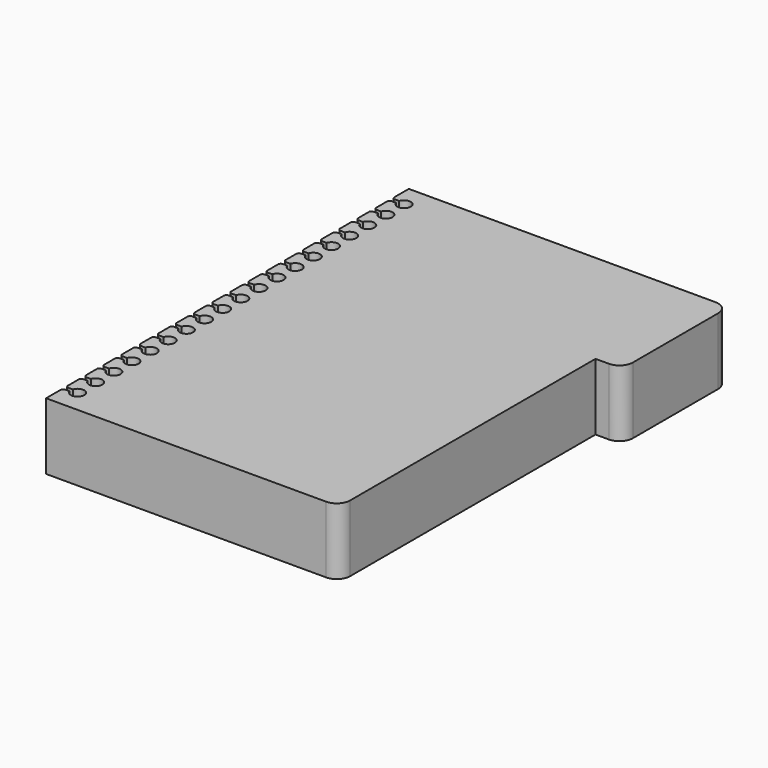
from build123d import *

# Parameters (mm, degrees)
F1_DEPTH = 25


with BuildPart() as f1:
    # F0 (on Top) → F1 (new body)
    with BuildSketch(Plane.XY):
        with BuildLine():
            Line((50, 85), (-55, 85))
            Line((-55, 85), (-55, 78.25))
            ThreePointArc((-55, 78.25), (-54.707107, 77.542893), (-54, 77.25))
            Line((-54, 77.25), (-52.384848, 77.25))
            ThreePointArc((-52.384848, 77.25), (-47.5, 76.5), (-52.384848, 75.75))
            Line((-52.384848, 75.75), (-54, 75.75))
            ThreePointArc((-54, 75.75), (-54.707107, 75.457107), (-55, 74.75))
            Line((-55, 74.75), (-55, 69.75))
            ThreePointArc((-55, 69.75), (-54.707107, 69.042893), (-54, 68.75))
            Line((-54, 68.75), (-52.384848, 68.75))
            ThreePointArc((-52.384848, 68.75), (-47.5, 68), (-52.384848, 67.25))
            Line((-52.384848, 67.25), (-54, 67.25))
            ThreePointArc((-54, 67.25), (-54.707107, 66.957107), (-55, 66.25))
            Line((-55, 66.25), (-55, 61.25))
            ThreePointArc((-55, 61.25), (-54.707107, 60.542893), (-54, 60.25))
            Line((-54, 60.25), (-52.384848, 60.25))
            ThreePointArc((-52.384848, 60.25), (-47.5, 59.5), (-52.384848, 58.75))
            Line((-52.384848, 58.75), (-54, 58.75))
            ThreePointArc((-54, 58.75), (-54.707107, 58.457107), (-55, 57.75))
            Line((-55, 57.75), (-55, 52.75))
            ThreePointArc((-55, 52.75), (-54.707107, 52.042893), (-54, 51.75))
            Line((-54, 51.75), (-52.384848, 51.75))
            ThreePointArc((-52.384848, 51.75), (-47.5, 51), (-52.384848, 50.25))
            Line((-52.384848, 50.25), (-54, 50.25))
            ThreePointArc((-54, 50.25), (-54.707107, 49.957107), (-55, 49.25))
            Line((-55, 49.25), (-55, 44.25))
            ThreePointArc((-55, 44.25), (-54.707107, 43.542893), (-54, 43.25))
            Line((-54, 43.25), (-52.384848, 43.25))
            ThreePointArc((-52.384848, 43.25), (-47.5, 42.5), (-52.384848, 41.75))
            Line((-52.384848, 41.75), (-54, 41.75))
            ThreePointArc((-54, 41.75), (-54.707107, 41.457107), (-55, 40.75))
            Line((-55, 40.75), (-55, 35.75))
            ThreePointArc((-55, 35.75), (-54.707107, 35.042893), (-54, 34.75))
            Line((-54, 34.75), (-52.384848, 34.75))
            ThreePointArc((-52.384848, 34.75), (-47.5, 34), (-52.384848, 33.25))
            Line((-52.384848, 33.25), (-54, 33.25))
            ThreePointArc((-54, 33.25), (-54.707107, 32.957107), (-55, 32.25))
            Line((-55, 32.25), (-55, 27.25))
            ThreePointArc((-55, 27.25), (-54.707107, 26.542893), (-54, 26.25))
            Line((-54, 26.25), (-52.384848, 26.25))
            ThreePointArc((-52.384848, 26.25), (-47.5, 25.5), (-52.384848, 24.75))
            Line((-52.384848, 24.75), (-54, 24.75))
            ThreePointArc((-54, 24.75), (-54.707107, 24.457107), (-55, 23.75))
            Line((-55, 23.75), (-55, 18.75))
            ThreePointArc((-55, 18.75), (-54.707107, 18.042893), (-54, 17.75))
            Line((-54, 17.75), (-52.384848, 17.75))
            ThreePointArc((-52.384848, 17.75), (-47.5, 17), (-52.384848, 16.25))
            Line((-52.384848, 16.25), (-54, 16.25))
            ThreePointArc((-54, 16.25), (-54.707107, 15.957107), (-55, 15.25))
            Line((-55, 15.25), (-55, 10.25))
            ThreePointArc((-55, 10.25), (-54.707107, 9.542893), (-54, 9.25))
            Line((-54, 9.25), (-52.384848, 9.25))
            ThreePointArc((-52.384848, 9.25), (-47.5, 8.5), (-52.384848, 7.75))
            Line((-52.384848, 7.75), (-54, 7.75))
            ThreePointArc((-54, 7.75), (-54.707107, 7.457107), (-55, 6.75))
            Line((-55, 6.75), (-55, 1.75))
            ThreePointArc((-55, 1.75), (-54.707107, 1.042893), (-54, 0.75))
            Line((-54, 0.75), (-52.384848, 0.75))
            ThreePointArc((-52.384848, 0.75), (-47.5, 0), (-52.384848, -0.75))
            Line((-52.384848, -0.75), (-54, -0.75))
            ThreePointArc((-54, -0.75), (-54.707107, -1.042893), (-55, -1.75))
            Line((-55, -1.75), (-55, -6.75))
            ThreePointArc((-55, -6.75), (-54.707107, -7.457107), (-54, -7.75))
            Line((-54, -7.75), (-52.384848, -7.75))
            ThreePointArc((-52.384848, -7.75), (-47.5, -8.5), (-52.384848, -9.25))
            Line((-52.384848, -9.25), (-54, -9.25))
            ThreePointArc((-54, -9.25), (-54.707107, -9.542893), (-55, -10.25))
            Line((-55, -10.25), (-55, -15.25))
            ThreePointArc((-55, -15.25), (-54.707107, -15.957107), (-54, -16.25))
            Line((-54, -16.25), (-52.384848, -16.25))
            ThreePointArc((-52.384848, -16.25), (-47.5, -17), (-52.384848, -17.75))
            Line((-52.384848, -17.75), (-54, -17.75))
            ThreePointArc((-54, -17.75), (-54.707107, -18.042893), (-55, -18.75))
            Line((-55, -18.75), (-55, -23.75))
            ThreePointArc((-55, -23.75), (-54.707107, -24.457107), (-54, -24.75))
            Line((-54, -24.75), (-52.384848, -24.75))
            ThreePointArc((-52.384848, -24.75), (-47.5, -25.5), (-52.384848, -26.25))
            Line((-52.384848, -26.25), (-54, -26.25))
            ThreePointArc((-54, -26.25), (-54.707107, -26.542893), (-55, -27.25))
            Line((-55, -27.25), (-55, -32.25))
            ThreePointArc((-55, -32.25), (-54.707107, -32.957107), (-54, -33.25))
            Line((-54, -33.25), (-52.384848, -33.25))
            ThreePointArc((-52.384848, -33.25), (-47.5, -34), (-52.384848, -34.75))
            Line((-52.384848, -34.75), (-54, -34.75))
            ThreePointArc((-54, -34.75), (-54.707107, -35.042893), (-55, -35.75))
            Line((-55, -35.75), (-55, -40.75))
            ThreePointArc((-55, -40.75), (-54.707107, -41.457107), (-54, -41.75))
            Line((-54, -41.75), (-52.384848, -41.75))
            ThreePointArc((-52.384848, -41.75), (-47.5, -42.5), (-52.384848, -43.25))
            Line((-52.384848, -43.25), (-54, -43.25))
            ThreePointArc((-54, -43.25), (-54.707107, -43.542893), (-55, -44.25))
            Line((-55, -44.25), (-55, -49.25))
            ThreePointArc((-55, -49.25), (-54.707107, -49.957107), (-54, -50.25))
            Line((-54, -50.25), (-52.384848, -50.25))
            ThreePointArc((-52.384848, -50.25), (-47.5, -51), (-52.384848, -51.75))
            Line((-52.384848, -51.75), (-54, -51.75))
            ThreePointArc((-54, -51.75), (-54.707107, -52.042893), (-55, -52.75))
            Line((-55, -52.75), (-55, -57.75))
            ThreePointArc((-55, -57.75), (-54.707107, -58.457107), (-54, -58.75))
            Line((-54, -58.75), (-52.384848, -58.75))
            ThreePointArc((-52.384848, -58.75), (-47.5, -59.5), (-52.384848, -60.25))
            Line((-52.384848, -60.25), (-54, -60.25))
            ThreePointArc((-54, -60.25), (-54.707107, -60.542893), (-55, -61.25))
            Line((-55, -61.25), (-55, -66.25))
            ThreePointArc((-55, -66.25), (-54.707107, -66.957107), (-54, -67.25))
            Line((-54, -67.25), (-52.384848, -67.25))
            ThreePointArc((-52.384848, -67.25), (-47.5, -68), (-52.384848, -68.75))
            Line((-52.384848, -68.75), (-54, -68.75))
            ThreePointArc((-54, -68.75), (-54.707107, -69.042893), (-55, -69.75))
            Line((-55, -69.75), (-55, -74.75))
            ThreePointArc((-55, -74.75), (-54.707107, -75.457107), (-54, -75.75))
            Line((-54, -75.75), (-52.384848, -75.75))
            ThreePointArc((-52.384848, -75.75), (-47.5, -76.5), (-52.384848, -77.25))
            Line((-52.384848, -77.25), (-54, -77.25))
            ThreePointArc((-54, -77.25), (-54.707107, -77.542893), (-55, -78.25))
            Line((-55, -78.25), (-55, -85))
            Line((-55, -85), (50, -85))
            ThreePointArc((50, -85), (53.535534, -83.535534), (55, -80))
            Line((55, -80), (55, 35))
            Line((55, 35), (55, 80))
            ThreePointArc((55, 80), (53.535534, 83.535534), (50, 85))
        make_face()
        with BuildLine():
            Line((60, 85), (50, 85))
            ThreePointArc((50, 85), (53.535534, 83.535534), (55, 80))
            Line((55, 80), (55, 35))
            Line((55, 35), (60, 35))
            ThreePointArc((60, 35), (63.535534, 36.464466), (65, 40))
            Line((65, 40), (65, 80))
            ThreePointArc((65, 80), (63.535534, 83.535534), (60, 85))
        make_face()
    extrude(amount=F1_DEPTH)


solid = f1.part
